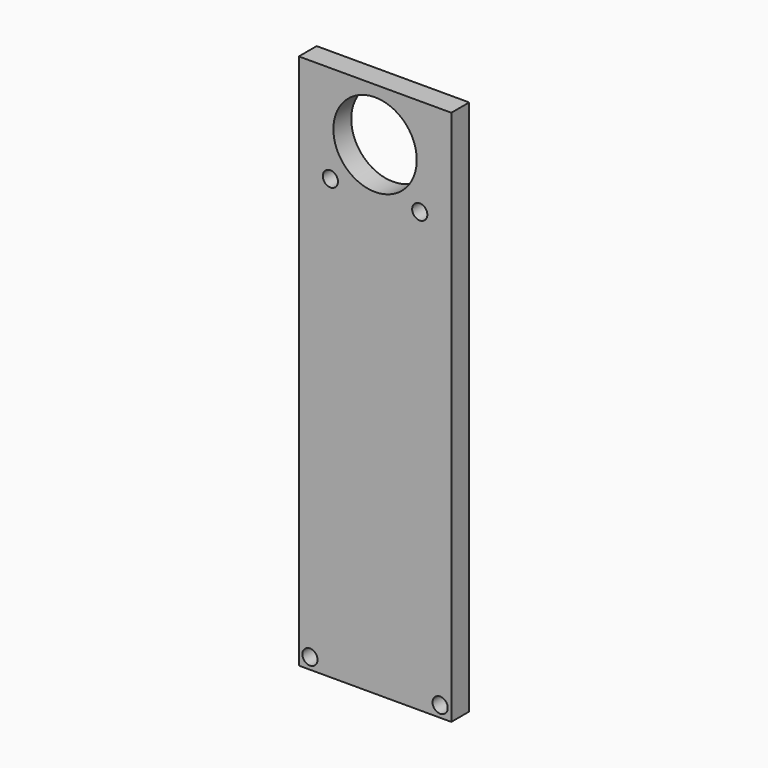
from build123d import *

# Parameters (mm, degrees)
F0_W     = 43.340832
F0_H     = 152.4
F0_R     = 2.159
F0_R_2   = 11.8491
F1_DEPTH = 6.35


with BuildPart() as f1:
    # F0 (on Front) → F1 (new body)
    with BuildSketch(Plane.XZ):
        Rectangle(F0_W, F0_H)
        with Locations((-18.495416, -73.025)):
            Circle(F0_R, mode=Mode.SUBTRACT)
        with Locations((18.495416, -73.025)):
            Circle(F0_R, mode=Mode.SUBTRACT)
        with Locations((-12.7, 48.4759)):
            Circle(F0_R, mode=Mode.SUBTRACT)
        with Locations((0, 61.1759)):
            Circle(F0_R_2, mode=Mode.SUBTRACT)
        with Locations((12.7, 48.4759)):
            Circle(F0_R, mode=Mode.SUBTRACT)
    extrude(amount=F1_DEPTH)


solid = f1.part
